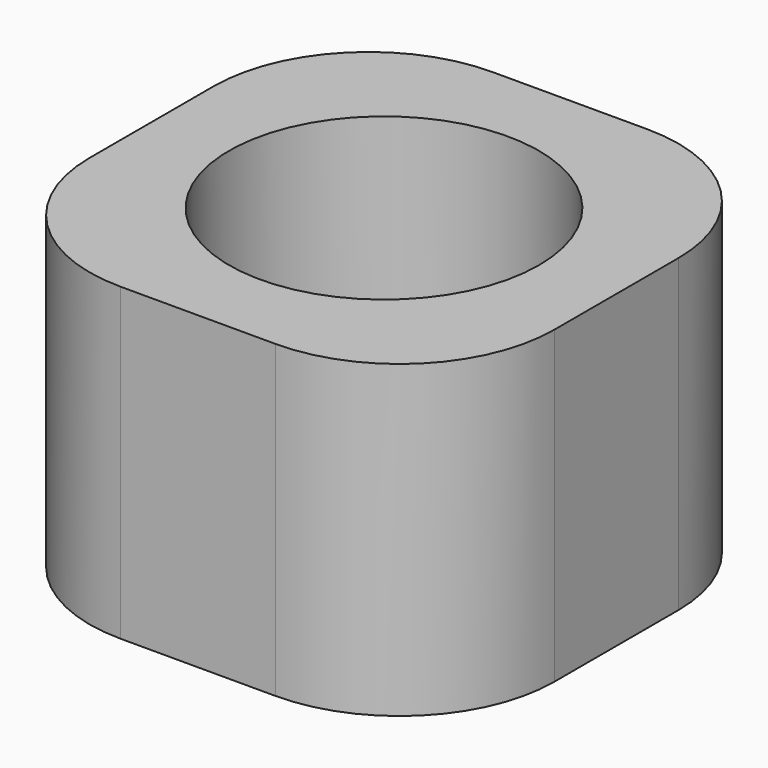
from build123d import *

# Parameters (mm, degrees)
F0_W     = 76.2
F0_H     = 76.2
F1_DEPTH = 50.8
F2_R     = 25.4
F3_R     = 25.4
F4_DEPTH = 45.72


with BuildPart() as f1:
    # F0 (on Top) → F1 (new body)
    with BuildSketch(Plane.XY):
        Rectangle(F0_W, F0_H)
    extrude(amount=F1_DEPTH)

    # F2
    f2_edges = [f1.edges().sort_by_distance(p)[0] for p in [
        (-38.1, -38.1, 25.4),
        (38.1, -38.1, 25.4),
        (-38.1, 38.1, 25.4),
        (38.1, 38.1, 25.4),
    ]]
    fillet(f2_edges, radius=F2_R)

    # F3 (on face) → F4 (cut)
    with BuildSketch(Plane.XY.offset(50.8)):
        Circle(F3_R)
    extrude(amount=-F4_DEPTH, mode=Mode.SUBTRACT)


solid = f1.part
